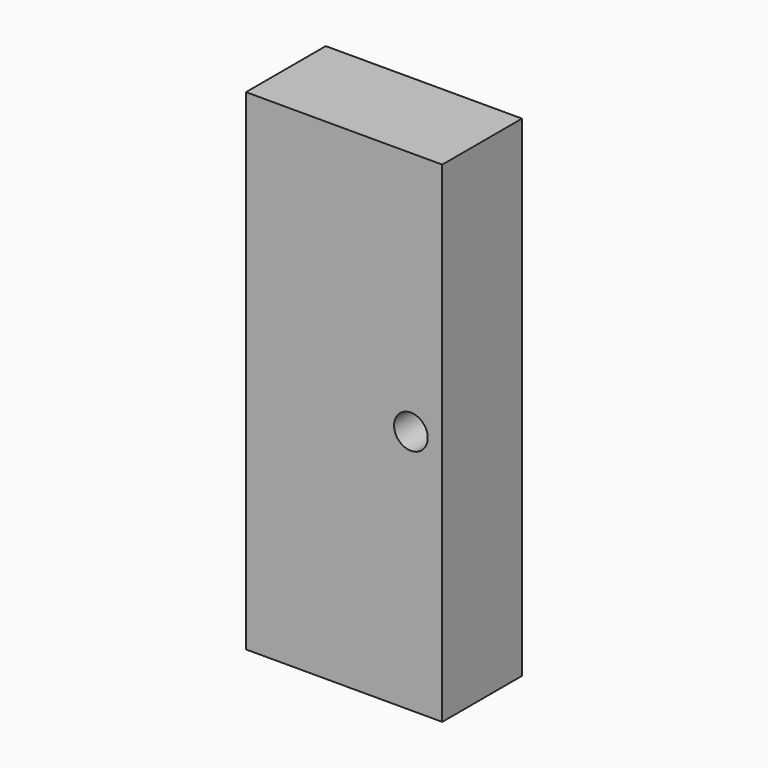
from build123d import *

# Parameters (mm, degrees)
F0_W     = 100.000054
F0_H     = 250.000008
F0_R     = 8.582325
F1_DEPTH = 25.4


with BuildPart() as f1:
    # F0 (on Front) → F1 (new body, symmetric)
    with BuildSketch(Plane.XZ):
        Rectangle(F0_W, F0_H)
        with Locations((34.023689, 0)):
            Circle(F0_R, mode=Mode.SUBTRACT)
    extrude(amount=F1_DEPTH, both=True)


solid = f1.part
